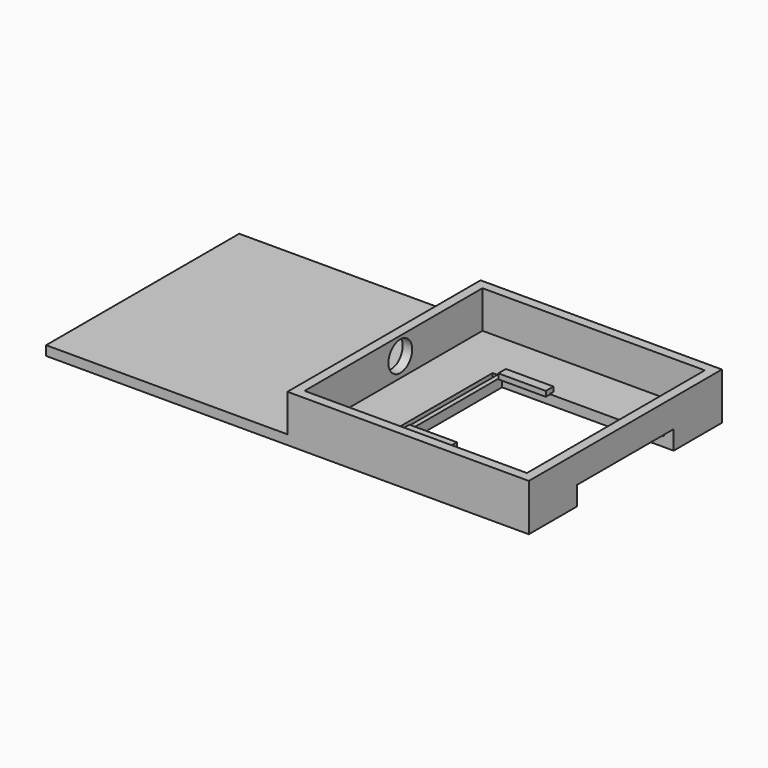
from build123d import *

# Parameters (mm, degrees)
F1_DEPTH       = 2
F2_W           = 50.8
F2_H           = 50.8
F2_W_2         = 46.8
F2_H_2         = 46.8
F3_DEPTH       = 8.89
F4_R           = 3.127246
F5_DEPTH       = 25.4
F6_W           = 25.4
F6_H           = 2
F7_DEPTH       = 25.4
F8_W           = 50.8
F8_H           = 50.8
F9_DEPTH       = 1
F10_W          = 1
F10_H          = 25.4
F11_DEPTH      = 1
F12_W          = 10
F12_H          = 2
F13_DEPTH      = 1
F13_DEPTH_BACK = 0.1


with BuildPart() as f1:
    # F0 (on Top) → F1 (new body)
    with BuildSketch(Plane.XY):
        Polygon((50.8, 25.4), (-50.8, 25.4), (-50.8, -25.4), (50.8, -25.4), (50.8, -12.7), (14.7, -12.7), (14.7, 12.7), (50.8, 12.7), align=None)
    extrude(amount=F1_DEPTH)

    # F2 (on face) → F3 (join)
    with BuildSketch(Plane.XY.offset(2)):
        with Locations((25.4, 0)):
            Rectangle(F2_W, F2_H)
        with Locations((25.4, 0)):
            Rectangle(F2_W_2, F2_H_2, mode=Mode.SUBTRACT)
    extrude(amount=F3_DEPTH)

    # F4 (on face) → F5 (cut)
    with BuildSketch(Plane(origin=(0, 0, 0), x_dir=(0, -1, 0), z_dir=(-1, 0, 0))):
        with Locations((-1.785935, 6.089438)):
            Circle(F4_R)
    extrude(amount=-F5_DEPTH, mode=Mode.SUBTRACT)

    # F6 (on face) → F7 (cut)
    with BuildSketch(Plane.YZ.offset(50.8)):
        with Locations((0, 3)):
            Rectangle(F6_W, F6_H)
    extrude(amount=-F7_DEPTH, mode=Mode.SUBTRACT)

    # F8 (on face) → F9 (cut)
    with BuildSketch(Plane.XY.offset(10.89)):
        with Locations((25.4, 0)):
            Rectangle(F8_W, F8_H)
    extrude(amount=-F9_DEPTH, mode=Mode.SUBTRACT)

    # F10 (on face) → F11 (cut)
    with BuildSketch(Plane.XY.offset(2)):
        with Locations((13.2, 0)):
            Rectangle(F10_W, F10_H)
    extrude(amount=-F11_DEPTH, mode=Mode.SUBTRACT)

    # F12 (on face) → F13 (join, two sides)
    with BuildSketch(Plane.XY.offset(2)) as f13_sk:
        with Locations((19.7, -12.7)):
            Rectangle(F12_W, F12_H)
        with Locations((19.7, 12.7)):
            Rectangle(F12_W, F12_H)
    extrude(amount=F13_DEPTH)
    extrude(f13_sk.sketch, amount=-F13_DEPTH_BACK)


solid = f1.part
